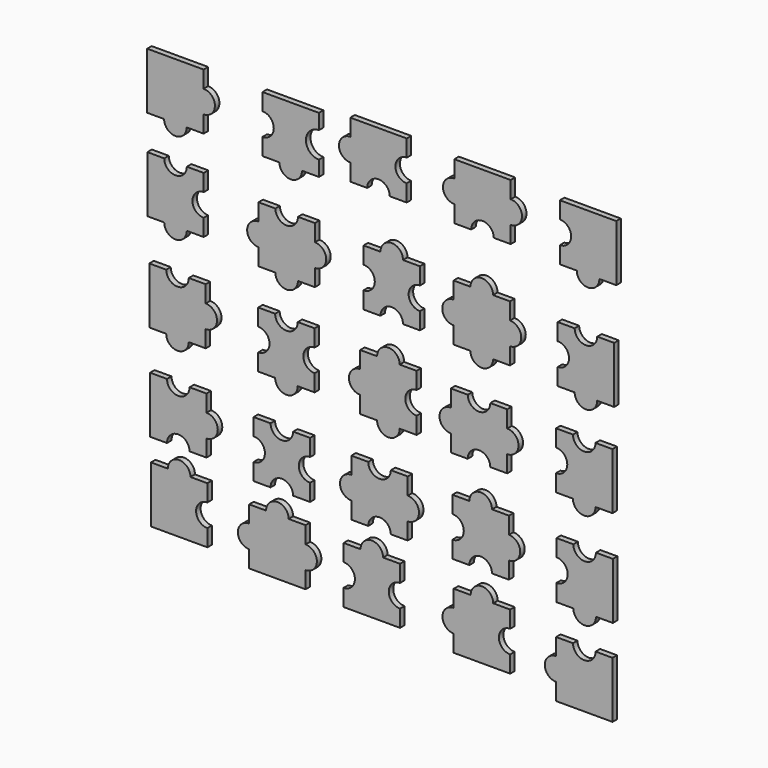
from build123d import *

# Parameters (mm, degrees)
F1_DEPTH  = 3.81
F3_DEPTH  = 3.81
F5_DEPTH  = 3.81
F7_DEPTH  = 3.81
F9_DEPTH  = 3.81
F11_DEPTH = 3.81
F13_DEPTH = 3.81
F15_DEPTH = 3.81
F17_DEPTH = 3.81
F19_DEPTH = 3.81
F21_DEPTH = 3.81
F23_DEPTH = 3.81
F25_DEPTH = 3.81
F27_DEPTH = 3.81
F29_DEPTH = 3.81
F31_DEPTH = 3.81
F33_DEPTH = 3.81
F35_DEPTH = 3.81
F37_DEPTH = 3.81
F39_DEPTH = 3.81
F41_DEPTH = 3.81
F43_DEPTH = 3.81
F45_DEPTH = 3.81
F47_DEPTH = 3.81
F49_DEPTH = 3.81


with BuildPart() as f1:
    # F0 (on Front) → F1 (new body)
    with BuildSketch(Plane.XZ):
        Polygon((-22.518263, 34.471775), (-60.618263, 34.471775), (-60.618263, -3.628225), (-49.188263, -3.628225), (-33.948263, -3.628225), (-22.518263, -3.628225), (-22.518263, 7.801775), (-22.518263, 23.041775), align=None)
        with BuildLine():
            Line((-33.948263, -3.628225), (-49.188263, -3.628225))
            ThreePointArc((-49.188263, -3.628225), (-41.568263, -11.248225), (-33.948263, -3.628225))
        make_face()
        with BuildLine():
            ThreePointArc((-22.518263, 7.801775), (-14.898263, 15.421775), (-22.518263, 23.041775))
            Line((-22.518263, 23.041775), (-22.518263, 7.801775))
        make_face()
    extrude(amount=F1_DEPTH)


with BuildPart() as f3:
    # F2 (on Front) → F3 (new body)
    with BuildSketch(Plane.XZ):
        with BuildLine():
            Line((-49.126315, -26.977201), (-60.556315, -26.977201))
            Line((-60.556315, -26.977201), (-60.556315, -65.077201))
            Line((-60.556315, -65.077201), (-49.126315, -65.077201))
            ThreePointArc((-49.126315, -65.077201), (-41.506315, -72.697201), (-33.886315, -65.077201))
            Line((-33.886315, -65.077201), (-22.456315, -65.077201))
            Line((-22.456315, -65.077201), (-22.456315, -53.647201))
            ThreePointArc((-22.456315, -53.647201), (-30.076315, -46.027201), (-22.456315, -38.407201))
            Line((-22.456315, -38.407201), (-22.456315, -26.977201))
            Line((-22.456315, -26.977201), (-33.886315, -26.977201))
            ThreePointArc((-33.886315, -26.977201), (-41.506315, -34.597201), (-49.126315, -26.977201))
        make_face()
    extrude(amount=F3_DEPTH)


with BuildPart() as f5:
    # F4 (on Front) → F5 (new body)
    with BuildSketch(Plane.XZ):
        with BuildLine():
            Line((55.31332, 34.02961), (17.21332, 34.02961))
            Line((17.21332, 34.02961), (17.21332, 22.59961))
            ThreePointArc((17.21332, 22.59961), (24.83332, 14.97961), (17.21332, 7.35961))
            Line((17.21332, 7.35961), (17.21332, -4.07039))
            Line((17.21332, -4.07039), (28.64332, -4.07039))
            ThreePointArc((28.64332, -4.07039), (36.26332, -11.69039), (43.88332, -4.07039))
            Line((43.88332, -4.07039), (55.31332, -4.07039))
            Line((55.31332, -4.07039), (55.31332, 6.231118))
            ThreePointArc((55.31332, 6.231118), (46.564828, 14.97961), (55.31332, 23.728102))
            Line((55.31332, 23.728102), (55.31332, 34.02961))
        make_face()
    extrude(amount=F5_DEPTH)


with BuildPart() as f7:
    # F6 (on Front) → F7 (new body)
    with BuildSketch(Plane.XZ):
        with BuildLine():
            Line((25.93359, -32.371305), (14.50359, -32.371305))
            Line((14.50359, -32.371305), (14.50359, -43.801305))
            ThreePointArc((14.50359, -43.801305), (6.88359, -51.421305), (14.50359, -59.041305))
            Line((14.50359, -59.041305), (14.50359, -70.471305))
            Line((14.50359, -70.471305), (25.93359, -70.471305))
            ThreePointArc((25.93359, -70.471305), (33.55359, -78.091305), (41.17359, -70.471305))
            Line((41.17359, -70.471305), (52.60359, -70.471305))
            Line((52.60359, -70.471305), (52.60359, -59.041305))
            ThreePointArc((52.60359, -59.041305), (60.22359, -51.421305), (52.60359, -43.801305))
            Line((52.60359, -43.801305), (52.60359, -32.371305))
            Line((52.60359, -32.371305), (41.17359, -32.371305))
            ThreePointArc((41.17359, -32.371305), (33.55359, -39.991305), (25.93359, -32.371305))
        make_face()
    extrude(amount=F7_DEPTH)


with BuildPart() as f9:
    # F8 (on Front) → F9 (new body)
    with BuildSketch(Plane.XZ):
        with BuildLine():
            Line((114.588584, 38.1), (76.488584, 38.1))
            Line((76.488584, 38.1), (76.488584, 26.67))
            ThreePointArc((76.488584, 26.67), (68.868584, 19.05), (76.488584, 11.43))
            Line((76.488584, 11.43), (76.488584, 0))
            Line((76.488584, 0), (87.918584, 0))
            ThreePointArc((87.918584, 0), (95.538584, 7.62), (103.158584, 0))
            Line((103.158584, 0), (114.588584, 0))
            Line((114.588584, 0), (114.588584, 11.43))
            ThreePointArc((114.588584, 11.43), (106.968584, 19.05), (114.588584, 26.67))
            Line((114.588584, 26.67), (114.588584, 38.1))
        make_face()
    extrude(amount=F9_DEPTH)


with BuildPart() as f11:
    # F10 (on Front) → F11 (new body)
    with BuildSketch(Plane.XZ):
        with BuildLine():
            Line((123.533006, -46.411459), (123.533006, -34.981459))
            Line((123.533006, -34.981459), (112.103006, -34.981459))
            ThreePointArc((112.103006, -34.981459), (104.483006, -27.361459), (96.863006, -34.981459))
            Line((96.863006, -34.981459), (85.433006, -34.981459))
            Line((85.433006, -34.981459), (85.433006, -46.411459))
            ThreePointArc((85.433006, -46.411459), (93.053006, -54.031459), (85.433006, -61.651459))
            Line((85.433006, -61.651459), (85.433006, -73.081459))
            Line((85.433006, -73.081459), (96.863006, -73.081459))
            ThreePointArc((96.863006, -73.081459), (104.483006, -65.461459), (112.103006, -73.081459))
            Line((112.103006, -73.081459), (123.533006, -73.081459))
            Line((123.533006, -73.081459), (123.533006, -61.651459))
            ThreePointArc((123.533006, -61.651459), (115.913006, -54.031459), (123.533006, -46.411459))
        make_face()
    extrude(amount=F11_DEPTH)


with BuildPart() as f13:
    # F12 (on Front) → F13 (new body)
    with BuildSketch(Plane.XZ):
        with BuildLine():
            Line((157.644038, -36.051046), (146.214038, -36.051046))
            Line((146.214038, -36.051046), (146.214038, -47.481046))
            ThreePointArc((146.214038, -47.481046), (138.594038, -55.101046), (146.214038, -62.721046))
            Line((146.214038, -62.721046), (146.214038, -74.151046))
            Line((146.214038, -74.151046), (157.644038, -74.151046))
            ThreePointArc((157.644038, -74.151046), (165.264038, -81.771046), (172.884038, -74.151046))
            Line((172.884038, -74.151046), (184.314038, -74.151046))
            Line((184.314038, -74.151046), (184.314038, -62.721046))
            ThreePointArc((184.314038, -62.721046), (191.934038, -55.101046), (184.314038, -47.481046))
            Line((184.314038, -47.481046), (184.314038, -36.051046))
            Line((184.314038, -36.051046), (172.884038, -36.051046))
            ThreePointArc((172.884038, -36.051046), (165.264038, -28.431046), (157.644038, -36.051046))
        make_face()
    extrude(amount=F13_DEPTH)


with BuildPart() as f15:
    # F14 (on Front) → F15 (new body)
    with BuildSketch(Plane.XZ):
        with BuildLine():
            Line((184.818487, 36.215223), (146.718487, 36.215223))
            Line((146.718487, 36.215223), (146.718487, 24.785223))
            ThreePointArc((146.718487, 24.785223), (139.098487, 17.165223), (146.718487, 9.545223))
            Line((146.718487, 9.545223), (146.718487, -1.884777))
            Line((146.718487, -1.884777), (158.148487, -1.884777))
            ThreePointArc((158.148487, -1.884777), (165.768487, 5.735223), (173.388487, -1.884777))
            Line((173.388487, -1.884777), (184.818487, -1.884777))
            Line((184.818487, -1.884777), (184.818487, 9.545223))
            ThreePointArc((184.818487, 9.545223), (192.438487, 17.165223), (184.818487, 24.785223))
            Line((184.818487, 24.785223), (184.818487, 36.215223))
        make_face()
    extrude(amount=F15_DEPTH)


with BuildPart() as f17:
    # F16 (on Front) → F17 (new body)
    with BuildSketch(Plane.XZ):
        with BuildLine():
            Line((256.103541, 34.992844), (218.003541, 34.992844))
            Line((218.003541, 34.992844), (218.003541, 23.562844))
            ThreePointArc((218.003541, 23.562844), (225.623541, 15.942844), (218.003541, 8.322844))
            Line((218.003541, 8.322844), (218.003541, -3.107156))
            Line((218.003541, -3.107156), (229.433541, -3.107156))
            ThreePointArc((229.433541, -3.107156), (237.053541, -10.727156), (244.673541, -3.107156))
            Line((244.673541, -3.107156), (256.103541, -3.107156))
            Line((256.103541, -3.107156), (256.103541, 34.992844))
        make_face()
    extrude(amount=F17_DEPTH)


with BuildPart() as f19:
    # F18 (on Front) → F19 (new body)
    with BuildSketch(Plane.XZ):
        with BuildLine():
            Line((228.008618, -37.86774), (216.578618, -37.86774))
            Line((216.578618, -37.86774), (216.578618, -49.29774))
            ThreePointArc((216.578618, -49.29774), (224.198618, -56.91774), (216.578618, -64.53774))
            Line((216.578618, -64.53774), (216.578618, -75.96774))
            Line((216.578618, -75.96774), (228.008618, -75.96774))
            ThreePointArc((228.008618, -75.96774), (235.628618, -83.58774), (243.248618, -75.96774))
            Line((243.248618, -75.96774), (254.678618, -75.96774))
            Line((254.678618, -75.96774), (254.678618, -37.86774))
            Line((254.678618, -37.86774), (243.248618, -37.86774))
            ThreePointArc((243.248618, -37.86774), (235.628618, -45.48774), (228.008618, -37.86774))
        make_face()
    extrude(amount=F19_DEPTH)


with BuildPart() as f21:
    # F20 (on Front) → F21 (new body)
    with BuildSketch(Plane.XZ):
        with BuildLine():
            Line((-47.789491, -92.706591), (-59.219491, -92.706591))
            Line((-59.219491, -92.706591), (-59.219491, -130.806591))
            Line((-59.219491, -130.806591), (-47.789491, -130.806591))
            ThreePointArc((-47.789491, -130.806591), (-40.169491, -138.426591), (-32.549491, -130.806591))
            Line((-32.549491, -130.806591), (-21.119491, -130.806591))
            Line((-21.119491, -130.806591), (-21.119491, -119.376591))
            ThreePointArc((-21.119491, -119.376591), (-13.499491, -111.756591), (-21.119491, -104.136591))
            Line((-21.119491, -104.136591), (-21.119491, -92.706591))
            Line((-21.119491, -92.706591), (-32.549491, -92.706591))
            ThreePointArc((-32.549491, -92.706591), (-40.169491, -100.326591), (-47.789491, -92.706591))
        make_face()
    extrude(amount=F21_DEPTH)


with BuildPart() as f23:
    # F22 (on Front) → F23 (new body)
    with BuildSketch(Plane.XZ):
        with BuildLine():
            Line((25.778334, -94.974212), (14.348334, -94.974212))
            Line((14.348334, -94.974212), (14.348334, -106.404212))
            ThreePointArc((14.348334, -106.404212), (21.968334, -114.024212), (14.348334, -121.644212))
            Line((14.348334, -121.644212), (14.348334, -133.074212))
            Line((14.348334, -133.074212), (25.778334, -133.074212))
            ThreePointArc((25.778334, -133.074212), (33.398334, -140.694212), (41.018334, -133.074212))
            Line((41.018334, -133.074212), (52.448334, -133.074212))
            Line((52.448334, -133.074212), (52.448334, -121.644212))
            ThreePointArc((52.448334, -121.644212), (44.828334, -114.024212), (52.448334, -106.404212))
            Line((52.448334, -106.404212), (52.448334, -94.974212))
            Line((52.448334, -94.974212), (41.018334, -94.974212))
            ThreePointArc((41.018334, -94.974212), (33.398334, -102.594212), (25.778334, -94.974212))
        make_face()
    extrude(amount=F23_DEPTH)


with BuildPart() as f25:
    # F24 (on Front) → F25 (new body)
    with BuildSketch(Plane.XZ):
        with BuildLine():
            Line((94.610234, -97.859509), (83.180234, -97.859509))
            Line((83.180234, -97.859509), (83.180234, -109.289509))
            ThreePointArc((83.180234, -109.289509), (75.560234, -116.909509), (83.180234, -124.529509))
            Line((83.180234, -124.529509), (83.180234, -135.959509))
            Line((83.180234, -135.959509), (94.610234, -135.959509))
            ThreePointArc((94.610234, -135.959509), (102.230234, -143.579509), (109.850234, -135.959509))
            Line((109.850234, -135.959509), (121.280234, -135.959509))
            Line((121.280234, -135.959509), (121.280234, -124.529509))
            ThreePointArc((121.280234, -124.529509), (113.660234, -116.909509), (121.280234, -109.289509))
            Line((121.280234, -109.289509), (121.280234, -97.859509))
            Line((121.280234, -97.859509), (109.850234, -97.859509))
            ThreePointArc((109.850234, -97.859509), (102.230234, -90.239509), (94.610234, -97.859509))
        make_face()
    extrude(amount=F25_DEPTH)


with BuildPart() as f27:
    # F26 (on Front) → F27 (new body)
    with BuildSketch(Plane.XZ):
        with BuildLine():
            Line((182.466026, -112.254036), (182.466026, -100.824036))
            Line((182.466026, -100.824036), (171.036026, -100.824036))
            ThreePointArc((171.036026, -100.824036), (163.416026, -108.444036), (155.796026, -100.824036))
            Line((155.796026, -100.824036), (144.366026, -100.824036))
            Line((144.366026, -100.824036), (144.366026, -112.254036))
            ThreePointArc((144.366026, -112.254036), (136.746026, -119.874036), (144.366026, -127.494036))
            Line((144.366026, -127.494036), (144.366026, -138.924036))
            Line((144.366026, -138.924036), (155.796026, -138.924036))
            ThreePointArc((155.796026, -138.924036), (163.416026, -131.304036), (171.036026, -138.924036))
            Line((171.036026, -138.924036), (182.466026, -138.924036))
            Line((182.466026, -138.924036), (182.466026, -127.494036))
            ThreePointArc((182.466026, -127.494036), (190.086026, -119.874036), (182.466026, -112.254036))
        make_face()
    extrude(amount=F27_DEPTH)


with BuildPart() as f29:
    # F28 (on Front) → F29 (new body)
    with BuildSketch(Plane.XZ):
        with BuildLine():
            Line((226.825197, -101.404704), (215.395197, -101.404704))
            Line((215.395197, -101.404704), (215.395197, -112.834704))
            ThreePointArc((215.395197, -112.834704), (223.015197, -120.454704), (215.395197, -128.074704))
            Line((215.395197, -128.074704), (215.395197, -139.504704))
            Line((215.395197, -139.504704), (226.825197, -139.504704))
            ThreePointArc((226.825197, -139.504704), (234.445197, -147.124704), (242.065197, -139.504704))
            Line((242.065197, -139.504704), (253.495197, -139.504704))
            Line((253.495197, -139.504704), (253.495197, -101.404704))
            Line((253.495197, -101.404704), (242.065197, -101.404704))
            ThreePointArc((242.065197, -101.404704), (234.445197, -109.024704), (226.825197, -101.404704))
        make_face()
    extrude(amount=F29_DEPTH)


with BuildPart() as f31:
    # F30 (on Front) → F31 (new body)
    with BuildSketch(Plane.XZ):
        with BuildLine():
            Line((-47.257851, -157.482997), (-58.687851, -157.482997))
            Line((-58.687851, -157.482997), (-58.687851, -195.582997))
            Line((-58.687851, -195.582997), (-47.257851, -195.582997))
            ThreePointArc((-47.257851, -195.582997), (-39.637851, -187.962997), (-32.017851, -195.582997))
            Line((-32.017851, -195.582997), (-20.587851, -195.582997))
            Line((-20.587851, -195.582997), (-20.587851, -184.152997))
            ThreePointArc((-20.587851, -184.152997), (-12.967851, -176.532997), (-20.587851, -168.912997))
            Line((-20.587851, -168.912997), (-20.587851, -157.482997))
            Line((-20.587851, -157.482997), (-32.017851, -157.482997))
            ThreePointArc((-32.017851, -157.482997), (-39.637851, -165.102997), (-47.257851, -157.482997))
        make_face()
    extrude(amount=F31_DEPTH)


with BuildPart() as f33:
    # F32 (on Front) → F33 (new body)
    with BuildSketch(Plane.XZ):
        with BuildLine():
            Line((22.665451, -161.11131), (11.235451, -161.11131))
            Line((11.235451, -161.11131), (11.235451, -172.54131))
            ThreePointArc((11.235451, -172.54131), (18.855451, -180.16131), (11.235451, -187.78131))
            Line((11.235451, -187.78131), (11.235451, -199.21131))
            Line((11.235451, -199.21131), (22.665451, -199.21131))
            ThreePointArc((22.665451, -199.21131), (30.285451, -191.59131), (37.905451, -199.21131))
            Line((37.905451, -199.21131), (49.335451, -199.21131))
            Line((49.335451, -199.21131), (49.335451, -187.78131))
            ThreePointArc((49.335451, -187.78131), (41.715451, -180.16131), (49.335451, -172.54131))
            Line((49.335451, -172.54131), (49.335451, -161.11131))
            Line((49.335451, -161.11131), (37.905451, -161.11131))
            ThreePointArc((37.905451, -161.11131), (30.285451, -168.73131), (22.665451, -161.11131))
        make_face()
    extrude(amount=F33_DEPTH)


with BuildPart() as f35:
    # F34 (on Front) → F35 (new body)
    with BuildSketch(Plane.XZ):
        with BuildLine():
            Line((88.611309, -162.585676), (77.181309, -162.585676))
            Line((77.181309, -162.585676), (77.181309, -174.015676))
            ThreePointArc((77.181309, -174.015676), (69.561309, -181.635676), (77.181309, -189.255676))
            Line((77.181309, -189.255676), (77.181309, -200.685676))
            Line((77.181309, -200.685676), (88.611309, -200.685676))
            ThreePointArc((88.611309, -200.685676), (96.231309, -193.065676), (103.851309, -200.685676))
            Line((103.851309, -200.685676), (115.281309, -200.685676))
            Line((115.281309, -200.685676), (115.281309, -189.255676))
            ThreePointArc((115.281309, -189.255676), (122.901309, -181.635676), (115.281309, -174.015676))
            Line((115.281309, -174.015676), (115.281309, -162.585676))
            Line((115.281309, -162.585676), (103.851309, -162.585676))
            ThreePointArc((103.851309, -162.585676), (96.231309, -170.205676), (88.611309, -162.585676))
        make_face()
    extrude(amount=F35_DEPTH)


with BuildPart() as f37:
    # F36 (on Front) → F37 (new body)
    with BuildSketch(Plane.XZ):
        with BuildLine():
            Line((156.932865, -163.64561), (145.502865, -163.64561))
            Line((145.502865, -163.64561), (145.502865, -175.07561))
            ThreePointArc((145.502865, -175.07561), (153.122865, -182.69561), (145.502865, -190.31561))
            Line((145.502865, -190.31561), (145.502865, -201.74561))
            Line((145.502865, -201.74561), (156.932865, -201.74561))
            ThreePointArc((156.932865, -201.74561), (164.552865, -194.12561), (172.172865, -201.74561))
            Line((172.172865, -201.74561), (183.602865, -201.74561))
            Line((183.602865, -201.74561), (183.602865, -190.31561))
            ThreePointArc((183.602865, -190.31561), (191.222865, -182.69561), (183.602865, -175.07561))
            Line((183.602865, -175.07561), (183.602865, -163.64561))
            Line((183.602865, -163.64561), (172.172865, -163.64561))
            ThreePointArc((172.172865, -163.64561), (164.552865, -156.02561), (156.932865, -163.64561))
        make_face()
    extrude(amount=F37_DEPTH)


with BuildPart() as f39:
    # F38 (on Front) → F39 (new body)
    with BuildSketch(Plane.XZ):
        with BuildLine():
            Line((227.114891, -166.545913), (215.684891, -166.545913))
            Line((215.684891, -166.545913), (215.684891, -177.975913))
            ThreePointArc((215.684891, -177.975913), (223.304891, -185.595913), (215.684891, -193.215913))
            Line((215.684891, -193.215913), (215.684891, -204.645913))
            Line((215.684891, -204.645913), (227.114891, -204.645913))
            ThreePointArc((227.114891, -204.645913), (234.734891, -212.265913), (242.354891, -204.645913))
            Line((242.354891, -204.645913), (253.784891, -204.645913))
            Line((253.784891, -204.645913), (253.784891, -166.545913))
            Line((253.784891, -166.545913), (242.354891, -166.545913))
            ThreePointArc((242.354891, -166.545913), (234.734891, -174.165913), (227.114891, -166.545913))
        make_face()
    extrude(amount=F39_DEPTH)


with BuildPart() as f41:
    # F40 (on Front) → F41 (new body)
    with BuildSketch(Plane.XZ):
        with BuildLine():
            Line((-19.988161, -222.045009), (-19.988161, -210.615009))
            Line((-19.988161, -210.615009), (-31.418161, -210.615009))
            ThreePointArc((-31.418161, -210.615009), (-39.038161, -202.995009), (-46.658161, -210.615009))
            Line((-46.658161, -210.615009), (-58.088161, -210.615009))
            Line((-58.088161, -210.615009), (-58.088161, -248.715009))
            Line((-58.088161, -248.715009), (-19.988161, -248.715009))
            Line((-19.988161, -248.715009), (-19.988161, -237.285009))
            ThreePointArc((-19.988161, -237.285009), (-27.608161, -229.665009), (-19.988161, -222.045009))
        make_face()
    extrude(amount=F41_DEPTH)


with BuildPart() as f43:
    # F42 (on Front) → F43 (new body)
    with BuildSketch(Plane.XZ):
        with BuildLine():
            Line((19.643297, -213.990584), (8.213297, -213.990584))
            Line((8.213297, -213.990584), (8.213297, -225.420584))
            ThreePointArc((8.213297, -225.420584), (0.593297, -233.040584), (8.213297, -240.660584))
            Line((8.213297, -240.660584), (8.213297, -252.090584))
            Line((8.213297, -252.090584), (46.313297, -252.090584))
            Line((46.313297, -252.090584), (46.313297, -240.660584))
            ThreePointArc((46.313297, -240.660584), (53.933297, -233.040584), (46.313297, -225.420584))
            Line((46.313297, -225.420584), (46.313297, -213.990584))
            Line((46.313297, -213.990584), (34.883297, -213.990584))
            ThreePointArc((34.883297, -213.990584), (27.263297, -206.370584), (19.643297, -213.990584))
        make_face()
    extrude(amount=F43_DEPTH)


with BuildPart() as f45:
    # F44 (on Front) → F45 (new body)
    with BuildSketch(Plane.XZ):
        with BuildLine():
            Line((83.421161, -216.192007), (71.991161, -216.192007))
            Line((71.991161, -216.192007), (71.991161, -227.622007))
            ThreePointArc((71.991161, -227.622007), (79.611161, -235.242007), (71.991161, -242.862007))
            Line((71.991161, -242.862007), (71.991161, -254.292007))
            Line((71.991161, -254.292007), (110.091161, -254.292007))
            Line((110.091161, -254.292007), (110.091161, -242.862007))
            ThreePointArc((110.091161, -242.862007), (102.471161, -235.242007), (110.091161, -227.622007))
            Line((110.091161, -227.622007), (110.091161, -216.192007))
            Line((110.091161, -216.192007), (98.661161, -216.192007))
            ThreePointArc((98.661161, -216.192007), (91.041161, -208.572007), (83.421161, -216.192007))
        make_face()
    extrude(amount=F45_DEPTH)


with BuildPart() as f47:
    # F46 (on Front) → F47 (new body)
    with BuildSketch(Plane.XZ):
        with BuildLine():
            Line((184.448968, -230.649208), (184.448968, -219.219208))
            Line((184.448968, -219.219208), (173.018968, -219.219208))
            ThreePointArc((173.018968, -219.219208), (165.398968, -211.599208), (157.778968, -219.219208))
            Line((157.778968, -219.219208), (146.348968, -219.219208))
            Line((146.348968, -219.219208), (146.348968, -230.649208))
            ThreePointArc((146.348968, -230.649208), (138.728968, -238.269208), (146.348968, -245.889208))
            Line((146.348968, -245.889208), (146.348968, -257.319208))
            Line((146.348968, -257.319208), (184.448968, -257.319208))
            Line((184.448968, -257.319208), (184.448968, -245.889208))
            ThreePointArc((184.448968, -245.889208), (176.828968, -238.269208), (184.448968, -230.649208))
        make_face()
    extrude(amount=F47_DEPTH)


with BuildPart() as f49:
    # F48 (on Front) → F49 (new body)
    with BuildSketch(Plane.XZ):
        with BuildLine():
            Line((253.540691, -263.530563), (253.540691, -225.430563))
            Line((253.540691, -225.430563), (242.110691, -225.430563))
            ThreePointArc((242.110691, -225.430563), (234.490691, -233.050563), (226.870691, -225.430563))
            Line((226.870691, -225.430563), (215.440691, -225.430563))
            Line((215.440691, -225.430563), (215.440691, -236.860563))
            ThreePointArc((215.440691, -236.860563), (207.820691, -244.480563), (215.440691, -252.100563))
            Line((215.440691, -252.100563), (215.440691, -263.530563))
            Line((215.440691, -263.530563), (253.540691, -263.530563))
        make_face()
        with BuildLine():
            Line((253.540691, -263.530563), (253.540691, -225.430563))
            Line((253.540691, -225.430563), (242.110691, -225.430563))
            ThreePointArc((242.110691, -225.430563), (234.490691, -233.050563), (226.870691, -225.430563))
            Line((226.870691, -225.430563), (215.440691, -225.430563))
            Line((215.440691, -225.430563), (215.440691, -236.860563))
            ThreePointArc((215.440691, -236.860563), (207.820691, -244.480563), (215.440691, -252.100563))
            Line((215.440691, -252.100563), (215.440691, -263.530563))
            Line((215.440691, -263.530563), (253.540691, -263.530563))
        make_face()
    extrude(amount=F49_DEPTH)


solid = Compound([f1.part, f3.part, f5.part, f7.part, f9.part, f11.part, f13.part, f15.part, f17.part, f19.part, f21.part, f23.part, f25.part, f27.part, f29.part, f31.part, f33.part, f35.part, f37.part, f39.part, f41.part, f43.part, f45.part, f47.part, f49.part])
